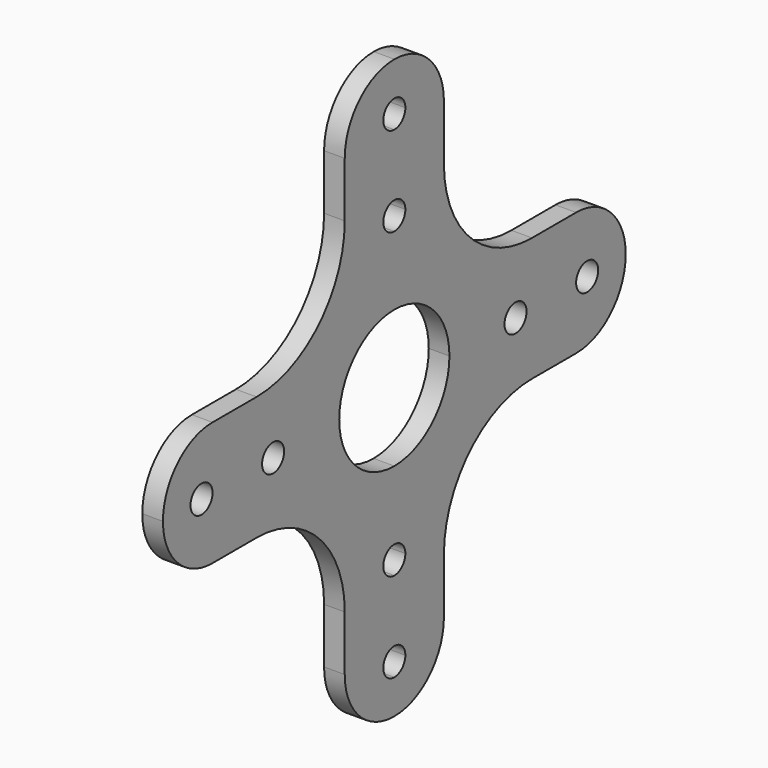
from build123d import *

# Parameters (mm, degrees)
F1_DEPTH = 3


with BuildPart() as f1:
    # F0 (on Right) → F1 (new body)
    with BuildSketch(Plane.YZ):
        with BuildLine():
            Line((-33, 9), (-33, 0))
            Line((-33, 0), (-24, 0))
            ThreePointArc((-24, 0), (-26.6360389693, 6.3639610307), (-33, 9))
        make_face()
        with BuildLine():
            ThreePointArc((-37, 0), (-35, 2), (-33, 0))
            Line((-33, 0), (-33, 9))
            ThreePointArc((-33, 9), (-39.3639610307, 6.3639610307), (-42, 0))
            Line((-42, 0), (-37, 0))
        make_face()
        with BuildLine():
            Line((-24, 0), (-33, 0))
            Line((-33, 0), (-33, -9))
            ThreePointArc((-33, -9), (-26.6360389693, -6.3639610307), (-24, 0))
        make_face()
        with BuildLine():
            Line((-33, -9), (-33, 0))
            ThreePointArc((-33, 0), (-35, -2), (-37, 0))
            Line((-37, 0), (-42, 0))
            ThreePointArc((-42, 0), (-39.3639610307, -6.3639610307), (-33, -9))
        make_face()
        with BuildLine():
            ThreePointArc((-20, 0), (-22, -2), (-24, 0))
            ThreePointArc((-24, 0), (-26.6360389693, -6.3639610307), (-33, -9))
            Line((-33, -9), (-25, -9))
            ThreePointArc((-25, -9), (-13.686291501, -13.686291501), (-9, -25))
            Line((-9, -25), (-9, -33))
            ThreePointArc((-9, -33), (-6.3639610273, -26.6360389659), (9.7e-09, -24))
            ThreePointArc((9.7e-09, -24), (-2, -22.0000000048), (0, -20))
            Line((0, -20), (0, -10))
            ThreePointArc((0, -10), (-7.0710678119, -7.0710678119), (-10, 0))
            Line((-10, 0), (-20, 0))
        make_face()
        with BuildLine():
            ThreePointArc((-33, 9), (-26.6360389693, 6.3639610307), (-24, 0))
            ThreePointArc((-24, 0), (-22, 2), (-20, 0))
            Line((-20, 0), (-10, 0))
            ThreePointArc((-10, 0), (-7.0710678119, 7.0710678119), (0, 10))
            Line((0, 10), (0, 20))
            ThreePointArc((0, 20), (-2, 21.9999999928), (-1.44e-08, 24))
            ThreePointArc((-1.44e-08, 24), (-6.3639610358, 26.6360389744), (-9, 33))
            Line((-9, 33), (-9, 25))
            ThreePointArc((-9, 25), (-13.686291501, 13.686291501), (-25, 9))
            Line((-25, 9), (-33, 9))
        make_face()
        with BuildLine():
            Line((0, 20), (0, 10))
            ThreePointArc((0, 10), (7.0710678119, 7.0710678119), (10, 0))
            Line((10, 0), (20, 0))
            ThreePointArc((20, 0), (22, 2), (24, 0))
            ThreePointArc((24, 0), (26.6360389693, 6.3639610307), (33, 9))
            Line((33, 9), (25, 9))
            ThreePointArc((25, 9), (13.686291501, 13.686291501), (9, 25))
            Line((9, 25), (9, 33))
            ThreePointArc((9, 33), (6.3639610256, 26.6360389642), (-1.44e-08, 24))
            ThreePointArc((-1.44e-08, 24), (1.4142135573, 23.4142135675), (2, 22))
            ThreePointArc((2, 22), (1.4142135624, 20.5857864376), (0, 20))
        make_face()
        with BuildLine():
            ThreePointArc((10, 0), (7.0710678119, -7.0710678119), (0, -10))
            Line((0, -10), (0, -20))
            ThreePointArc((0, -20), (1.4142135624, -20.5857864376), (2, -22))
            ThreePointArc((2, -22), (1.4142135658, -23.414213559), (9.7e-09, -24))
            ThreePointArc((9.7e-09, -24), (6.3639610341, -26.6360389727), (9, -33))
            Line((9, -33), (9, -25))
            ThreePointArc((9, -25), (13.686291501, -13.686291501), (25, -9))
            Line((25, -9), (33, -9))
            ThreePointArc((33, -9), (26.6360389693, -6.3639610307), (24, 0))
            ThreePointArc((24, 0), (22, -2), (20, 0))
            Line((20, 0), (10, 0))
        make_face()
        with BuildLine():
            Line((0, 33), (-9, 33))
            ThreePointArc((-9, 33), (-6.3639610358, 26.6360389744), (-1.44e-08, 24))
            Line((0, 24), (0, 33))
        make_face()
        with BuildLine():
            ThreePointArc((0, 42), (-6.3639610307, 39.3639610307), (-9, 33))
            Line((-9, 33), (0, 33))
            ThreePointArc((0, 33), (-2, 35), (0, 37))
            Line((0, 37), (0, 42))
        make_face()
        with BuildLine():
            Line((0, -33), (-9, -33))
            ThreePointArc((-9, -33), (-6.3639610307, -39.3639610307), (0, -42))
            Line((0, -42), (0, -37))
            ThreePointArc((0, -37), (-2, -35), (0, -33))
        make_face()
        with BuildLine():
            ThreePointArc((9.7e-09, -24), (-6.3639610273, -26.6360389659), (-9, -33))
            Line((-9, -33), (0, -33))
            Line((0, -33), (0, -24))
        make_face()
        with BuildLine():
            ThreePointArc((9, 33), (6.3639610307, 39.3639610307), (0, 42))
            Line((0, 42), (0, 37))
            ThreePointArc((0, 37), (1.4142135624, 36.4142135624), (2, 35))
            ThreePointArc((2, 35), (1.4142135624, 33.5857864376), (0, 33))
            Line((0, 33), (0, 24))
            ThreePointArc((-1.44e-08, 24), (6.3639610256, 26.6360389642), (9, 33))
        make_face()
        with BuildLine():
            Line((0, -37), (0, -42))
            ThreePointArc((0, -42), (6.3639610307, -39.3639610307), (9, -33))
            Line((9, -33), (0, -33))
            ThreePointArc((0, -33), (1.4142135624, -33.5857864376), (2, -35))
            ThreePointArc((2, -35), (1.4142135624, -36.4142135624), (0, -37))
        make_face()
        with BuildLine():
            ThreePointArc((9, -33), (6.3639610341, -26.6360389727), (9.7e-09, -24))
            Line((0, -24), (0, -33))
            Line((0, -33), (9, -33))
        make_face()
        with BuildLine():
            ThreePointArc((33, 9), (26.6360389693, 6.3639610307), (24, 0))
            Line((24, 0), (33, 0))
            ThreePointArc((33, 0), (35, 2), (37, 0))
            Line((37, 0), (42, 0))
            ThreePointArc((42, 0), (39.3639610307, 6.3639610307), (33, 9))
        make_face()
        with BuildLine():
            Line((33, 0), (24, 0))
            ThreePointArc((24, 0), (26.6360389693, -6.3639610307), (33, -9))
            Line((33, -9), (33, 0))
        make_face()
        with BuildLine():
            ThreePointArc((37, 0), (35, -2), (33, 0))
            Line((33, 0), (33, -9))
            ThreePointArc((33, -9), (39.3639610307, -6.3639610307), (42, 0))
            Line((42, 0), (37, 0))
        make_face()
    extrude(amount=F1_DEPTH)


solid = f1.part
